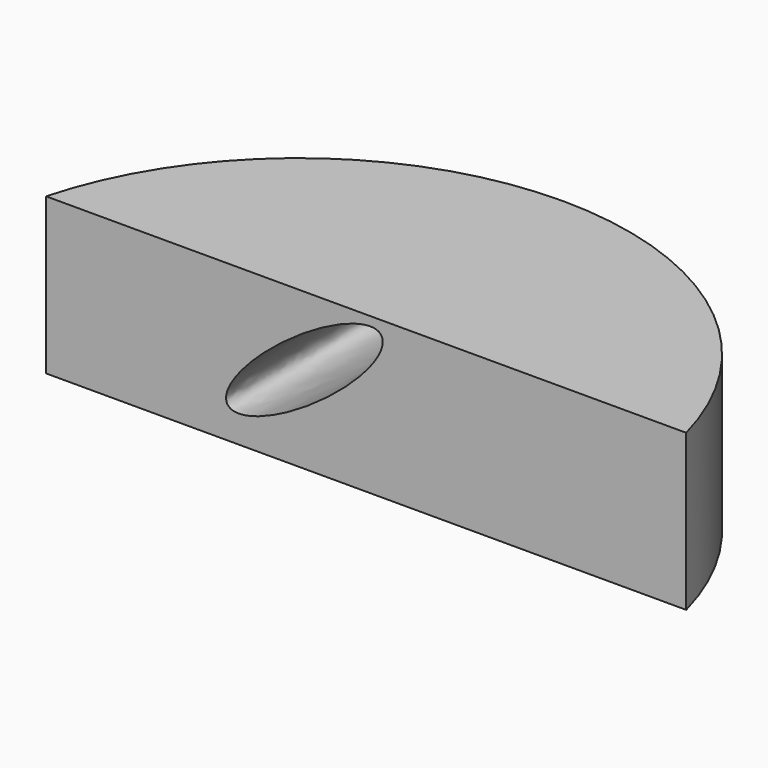
from build123d import *

# Parameters (mm, degrees)
F1_DEPTH = 25.4
F4_DEPTH = 102.057215


with BuildPart() as f1:
    # F0 (on Top) → F1 (new body)
    with BuildSketch(Plane.XY):
        with BuildLine():
            ThreePointArc((48.519544, 61.995015), (-3.623417, 102.056215), (-55.766378, 61.995015))
            Line((-55.766378, 61.995015), (48.519544, 61.995015))
        make_face()
    extrude(amount=F1_DEPTH)

    # F3 (on face) → F4 (cut, through all)
    with BuildSketch(Plane.XZ):
        with BuildLine():
            add(Edge.make_bspline(
                [(-1.1865, 23.250978), (-5.652705, 29.409019), (-22.164234, 12.735194), (-38.675764, -3.93863), (-17.69803, 6.577154), (3.279704, 17.092938), (-1.1865, 23.250978)],
                knots=[0, 0, 0, 2.094395, 2.094395, 4.18879, 4.18879, 6.283185, 6.283185, 6.283185], degree=2, weights=[1, 0.5, 1, 0.5, 1, 0.5, 1]))
        make_face()
    extrude(amount=-F4_DEPTH, mode=Mode.SUBTRACT)


solid = f1.part
